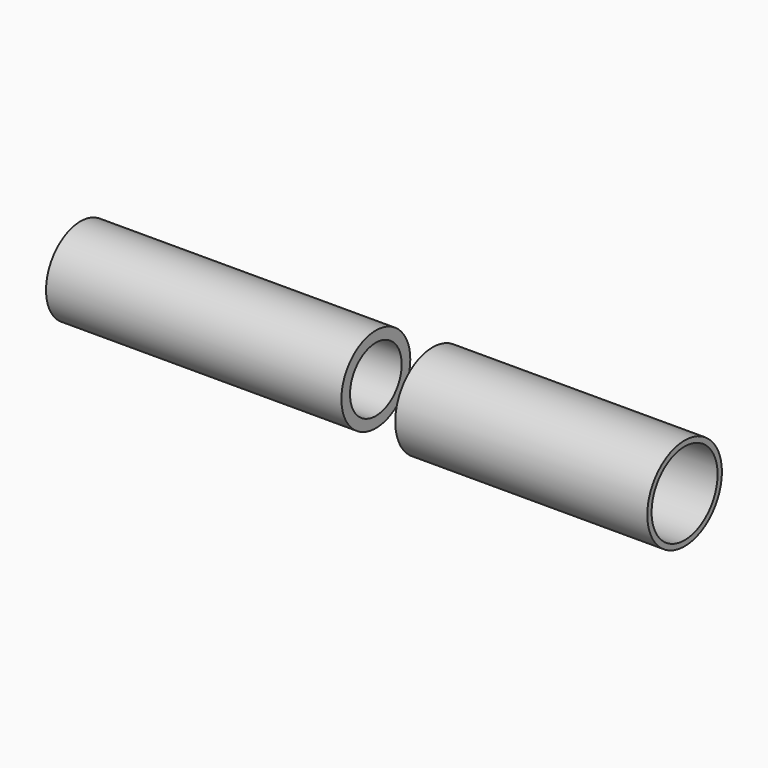
from build123d import *

# Parameters (mm, degrees)
F0_W   = 8.231178
F0_H   = 0.3
F0_W_2 = 7.023938
F0_H_2 = 0.15


with BuildPart() as f1:
    # F0 (on Top) → F1 (revolve)
    with BuildSketch(Plane.XY):
        with Locations((-4.324112, 1.05)):
            Rectangle(F0_W, F0_H)
        with Locations((4.883832, 1.225)):
            Rectangle(F0_W_2, F0_H_2)
    revolve(axis=Axis((-0.417047, 0, 0), (1, 0, 0)))


solid = f1.part
